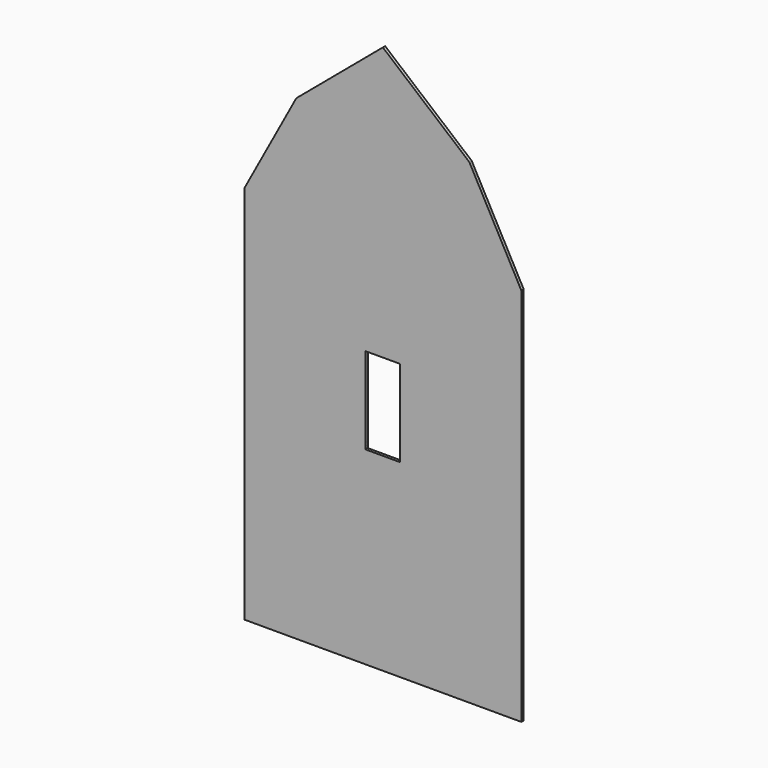
from build123d import *

# Parameters (mm, degrees)
F1_DEPTH = 1


with BuildPart() as f1:
    # F0 (on Front) → F1 (new body)
    with BuildSketch(Plane.XZ):
        Polygon((163.693981, -76.06217), (163.693981, -53.31217), (163.693981, -20.56217), (163.693981, 52.43783), (163.693981, 55.63783), (145.693981, 88.939497), (115.693981, 114.18783), (85.693981, 88.939497), (67.693981, 55.63783), (67.693981, -53.31217), (67.693981, -76.06217), align=None)
        Polygon((109.693981, -8.46217), (109.693981, 19.53783), (121.693981, 19.53783), (121.693981, -8.46217), (121.693981, -9.46217), (121.693981, -10.46217), (109.690979, -10.46217), (109.690979, -9.46217), align=None, mode=Mode.SUBTRACT)
    extrude(amount=F1_DEPTH)


solid = f1.part
